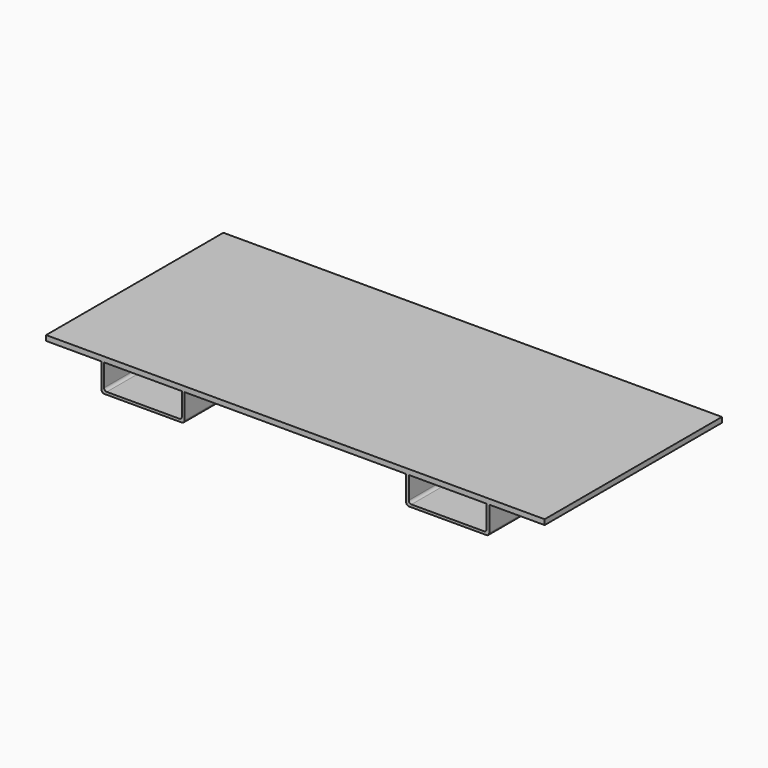
from build123d import *

# Parameters (mm, degrees)
F0_W     = 914.4
F0_H     = 406.4
F1_DEPTH = 9.525
F3_DEPTH = 406.4
F4_R     = 5


with BuildPart() as f1:
    # F0 (on Top) → F1 (new body)
    with BuildSketch(Plane.XY):
        Rectangle(F0_W, F0_H)
    extrude(amount=F1_DEPTH)

    # F2 (on face) → F3 (join, through all)
    with BuildSketch(Plane.XZ.offset(203.2)):
        with BuildLine():
            Line((-350.8375, 0), (-355.6, 0))
            Line((-355.6, 0), (-355.6, -45.8))
            ThreePointArc((-355.6, -45.8), (-354.135534, -49.335534), (-350.6, -50.8))
            Line((-350.6, -50.8), (-208.2, -50.8))
            ThreePointArc((-208.2, -50.8), (-204.664466, -49.335534), (-203.2, -45.8))
            Line((-203.2, -45.8), (-203.2, 0))
            Line((-203.2, 0), (-207.9625, 0))
            Line((-207.9625, 0), (-207.9625, -41.0375))
            ThreePointArc((-207.9625, -41.0375), (-209.426966, -44.573034), (-212.9625, -46.0375))
            Line((-212.9625, -46.0375), (-345.8375, -46.0375))
            ThreePointArc((-345.8375, -46.0375), (-349.373034, -44.573034), (-350.8375, -41.0375))
            Line((-350.8375, -41.0375), (-350.8375, 0))
        make_face()
        with BuildLine():
            Line((207.9625, 0), (203.2, 0))
            Line((203.2, 0), (203.2, -45.8))
            ThreePointArc((203.2, -45.8), (204.664466, -49.335534), (208.2, -50.8))
            Line((208.2, -50.8), (355.6, -50.8))
            Line((355.6, -50.8), (355.6, 0))
            Line((355.6, 0), (350.8375, 0))
            Line((350.8375, 0), (350.8375, -41.0375))
            ThreePointArc((350.8375, -41.0375), (349.373034, -44.573034), (345.8375, -46.0375))
            Line((345.8375, -46.0375), (212.9625, -46.0375))
            ThreePointArc((212.9625, -46.0375), (209.426966, -44.573034), (207.9625, -41.0375))
            Line((207.9625, -41.0375), (207.9625, 0))
        make_face()
    extrude(amount=-F3_DEPTH)

    # F4
    f4_edges = [f1.edges().sort_by_distance(p)[0] for p in [
        (355.6, 0, -50.8),
    ]]
    fillet(f4_edges, radius=F4_R)


solid = f1.part
